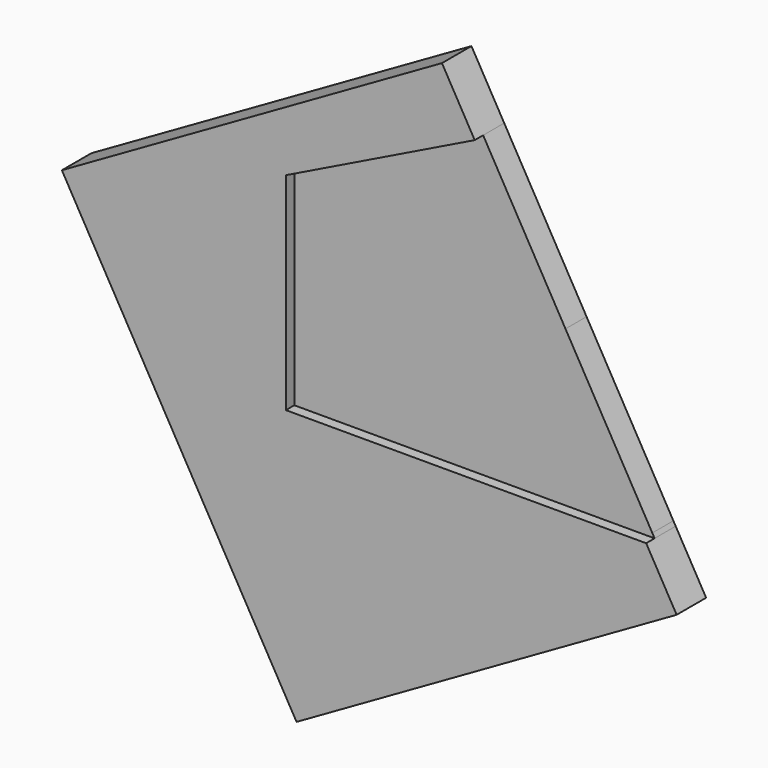
from build123d import *

# Parameters (mm, degrees)
F1_DEPTH = 0.8
F2_DEPTH = 2


with BuildPart() as f1:
    # F0 (on Front) → F1 (new body)
    with BuildSketch(Plane.XZ):
        Polygon((25, 0), (0, 0), (0, 15.7), (14.3351472552, 22.7054297943), (11.8484024629, 27.0431827077), (-17.0050778452, 10.5020741364), (-4.685329569, -10.9878769608), (0.8098351958, -20.5733668117), (29.663315504, -4.0322582404), (27.3517045431, 0), align=None)
    extrude(amount=F1_DEPTH)

    # F0 (on Front) → F2 (join)
    with BuildSketch(Plane.XZ):
        Polygon((25, 0), (0, 0), (0, 15.7), (14.3351472552, 22.7054297943), (11.8484024629, 27.0431827077), (-17.0050778452, 10.5020741364), (-4.685329569, -10.9878769608), (0.8098351958, -20.5733668117), (29.663315504, -4.0322582404), (27.3517045431, 0), align=None)
        Polygon((0, 15.7), (0, 0), (20.5860966838, 11.8015870761), (14.3351472552, 22.7054297943), align=None)
        Polygon((20.5860966838, 11.8015870761), (0, 0), (25, 0), align=None)
        Polygon((20.5860966838, 11.8015870761), (25, 0), (27.3517045431, 0), (27.1765707117, 0.305494673), align=None)
    extrude(amount=-F2_DEPTH)


solid = f1.part
